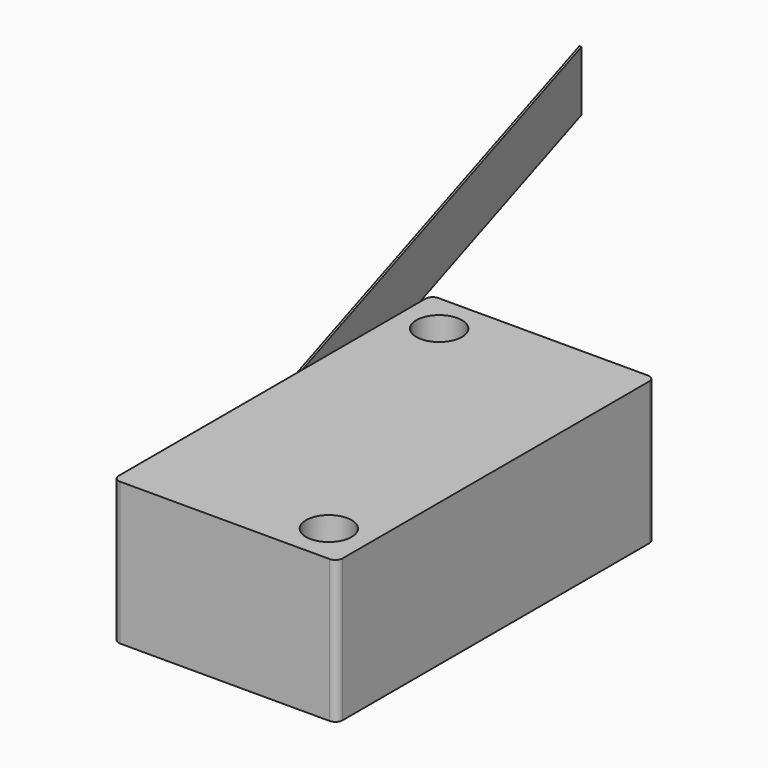
from build123d import *

# Parameters (mm, degrees)
F0_R     = 1.6
F1_DEPTH = 10
F4_DEPTH = 4.2


with BuildPart() as f1:
    # F0 (on Top) → F1 (new body)
    with BuildSketch(Plane.XY):
        with BuildLine():
            Line((-5.05, 13.95), (-7.35, 13.95))
            ThreePointArc((-7.35, 13.95), (-7.7035533906, 13.8035533906), (-7.85, 13.45))
            Line((-7.85, 13.45), (-7.85, -2.05))
            Line((-7.85, -2.05), (7.85, -2.05))
            Line((7.85, -2.05), (7.85, 13.45))
            ThreePointArc((7.85, 13.45), (7.7035533906, 13.8035533906), (7.35, 13.95))
            Line((7.35, 13.95), (-5.05, 13.95))
        make_face()
        with Locations((-5.05, 11.15)):
            Circle(F0_R, mode=Mode.SUBTRACT)
        with BuildLine():
            Line((7.85, -2.05), (-7.85, -2.05))
            Line((-7.85, -2.05), (-7.85, -13.45))
            ThreePointArc((-7.85, -13.45), (-7.7035533906, -13.8035533906), (-7.35, -13.95))
            Line((-7.35, -13.95), (5.05, -13.95))
            Line((5.05, -13.95), (7.35, -13.95))
            ThreePointArc((7.35, -13.95), (7.7035533906, -13.8035533906), (7.85, -13.45))
            Line((7.85, -13.45), (7.85, -11.15))
            Line((7.85, -11.15), (7.85, -2.05))
        make_face()
        with Locations((5.05, -11.15)):
            Circle(F0_R, mode=Mode.SUBTRACT)
    extrude(amount=F1_DEPTH)


with BuildPart() as f4:
    # F3 (on offset) → F4 (new body)
    with BuildSketch(Plane.XY.offset(2.9)):
        with BuildLine():
            Line((-7.7815089673, -2.355466623), (-7.7815089673, -2.2150006499))
            Line((-7.7815089673, -2.2150006499), (-8.1608147489, -2.2150006499))
            ThreePointArc((-8.1608147489, -2.2150006499), (-8.458596478, -2.116654782), (-8.6392357967, -1.8603048171))
            Line((-8.6392357967, -1.8603048171), (-23.3169193168, 46.4666830646))
            Line((-23.3169193168, 46.4666830646), (-23.4687773589, 46.4666830646))
            Line((-23.4687773588, 46.4666830646), (-8.7484320635, -2.0007707902))
            ThreePointArc((-8.7484320635, -2.0007707902), (-8.5677927448, -2.2571207551), (-8.2700110157, -2.355466623))
            Line((-8.2700110157, -2.355466623), (-7.7815089673, -2.355466623))
        make_face()
    extrude(amount=F4_DEPTH)


with BuildPart() as f4b:
    # F3 (on offset) → F4, piece 2 (new body)
    with BuildSketch(Plane.XY.offset(2.9)):
        with BuildLine():
            Line((-7.7815089673, -1.8303291872), (-7.7815089673, -1.2152291602))
            ThreePointArc((-7.7815089673, -1.2152291602), (-8.3503129715, -1.5227791737), (-7.7815089673, -1.8303291872))
        make_face()
    extrude(amount=F4_DEPTH)


solid = Compound([f1.part, f4.part])
